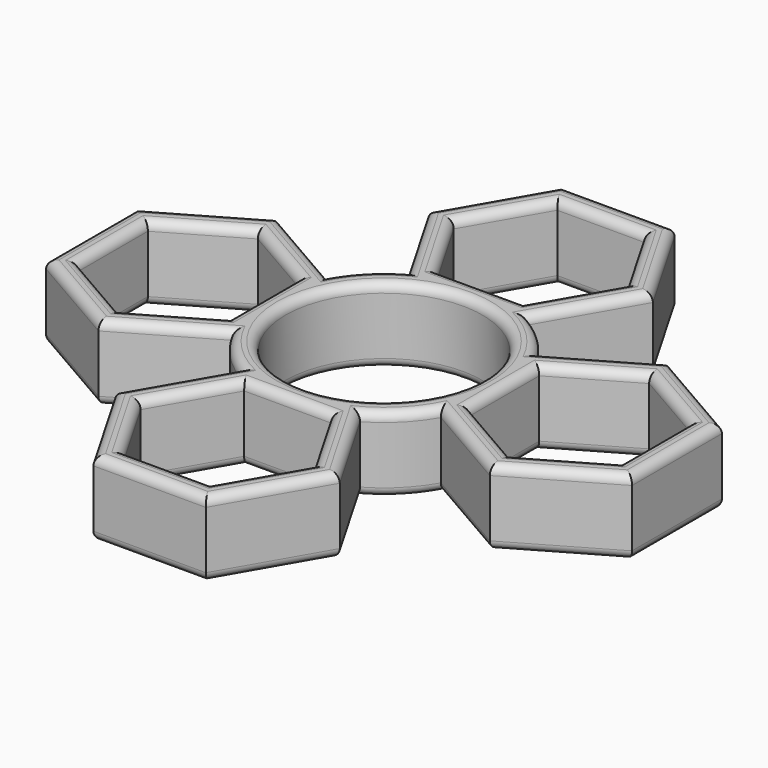
from build123d import *

# Parameters (mm, degrees)
F1_DEPTH = 8.5
F2_R     = 1


with BuildPart() as f1:
    # F0 (on Top) → F1 (new body)
    with BuildSketch(Plane.XY):
        with BuildLine():
            Line((11.125, -6.3508529611), (11.125, 0))
            ThreePointArc((11.125, 0), (7.8665629407, -7.8665629407), (0, -11.125))
            Line((0, -11.125), (6.3508529611, -11.125))
            Line((6.3508529611, -11.125), (6.7583017376, -11.8307219824))
            ThreePointArc((6.7583017376, -11.8307219824), (9.6343298937, -9.6343298937), (11.8307219824, -6.7583017376))
            Line((11.8307219824, -6.7583017376), (11.125, -6.3508529611))
        make_face()
        with BuildLine():
            Line((11.125, 6.3508529611), (11.125, 0))
            Line((11.125, 0), (11.125, -6.3508529611))
            Line((11.125, -6.3508529611), (11.8307219824, -6.7583017376))
            ThreePointArc((11.8307219824, -6.7583017376), (13.1687928834, -3.4962149527), (13.625, 0))
            ThreePointArc((13.625, 0), (13.1687928834, 3.4962149527), (11.8307219824, 6.7583017376))
            Line((11.8307219824, 6.7583017376), (11.125, 6.3508529611))
        make_face()
        with BuildLine():
            ThreePointArc((0, 11.125), (7.8665629407, 7.8665629407), (11.125, 0))
            Line((11.125, 0), (11.125, 6.3508529611))
            Line((11.125, 6.3508529611), (11.8307219824, 6.7583017376))
            ThreePointArc((11.8307219824, 6.7583017376), (9.6343298937, 9.6343298937), (6.7583017376, 11.8307219824))
            Line((6.7583017376, 11.8307219824), (6.3508529611, 11.125))
            Line((6.3508529611, 11.125), (0, 11.125))
        make_face()
        with BuildLine():
            Line((-6.3508529611, 11.125), (0, 11.125))
            Line((0, 11.125), (6.3508529611, 11.125))
            Line((6.3508529611, 11.125), (6.7583017376, 11.8307219824))
            ThreePointArc((6.7583017376, 11.8307219824), (3.4962149527, 13.1687928834), (0, 13.625))
            ThreePointArc((0, 13.625), (-3.4962149527, 13.1687928834), (-6.7583017376, 11.8307219824))
            Line((-6.7583017376, 11.8307219824), (-6.3508529611, 11.125))
        make_face()
        with BuildLine():
            ThreePointArc((-11.125, 0), (-7.8665629407, 7.8665629407), (0, 11.125))
            Line((0, 11.125), (-6.3508529611, 11.125))
            Line((-6.3508529611, 11.125), (-6.7583017376, 11.8307219824))
            ThreePointArc((-6.7583017376, 11.8307219824), (-9.6343298937, 9.6343298937), (-11.8307219824, 6.7583017376))
            Line((-11.8307219824, 6.7583017376), (-11.125, 6.3508529611))
            Line((-11.125, 6.3508529611), (-11.125, 0))
        make_face()
        with BuildLine():
            Line((-6.3508529611, -11.125), (0, -11.125))
            ThreePointArc((0, -11.125), (-7.8665629407, -7.8665629407), (-11.125, 0))
            Line((-11.125, 0), (-11.125, -6.3508529611))
            Line((-11.125, -6.3508529611), (-11.8307219824, -6.7583017376))
            ThreePointArc((-11.8307219824, -6.7583017376), (-9.6343298937, -9.6343298937), (-6.7583017376, -11.8307219824))
            Line((-6.7583017376, -11.8307219824), (-6.3508529611, -11.125))
        make_face()
        with BuildLine():
            Line((6.3508529611, -11.125), (0, -11.125))
            Line((0, -11.125), (-6.3508529611, -11.125))
            Line((-6.3508529611, -11.125), (-6.7583017376, -11.8307219824))
            ThreePointArc((-6.7583017376, -11.8307219824), (-3.4962149527, -13.1687928834), (0, -13.625))
            ThreePointArc((0, -13.625), (3.4962149527, -13.1687928834), (6.7583017376, -11.8307219824))
            Line((6.7583017376, -11.8307219824), (6.3508529611, -11.125))
        make_face()
        with BuildLine():
            Line((-11.125, -6.3508529611), (-11.125, 0))
            Line((-11.125, 0), (-11.125, 6.3508529611))
            Line((-11.125, 6.3508529611), (-11.8307219824, 6.7583017376))
            ThreePointArc((-11.8307219824, 6.7583017376), (-13.1687928834, 3.4962149527), (-13.625, 0))
            ThreePointArc((-13.625, 0), (-13.1687928834, -3.4962149527), (-11.8307219824, -6.7583017376))
            Line((-11.8307219824, -6.7583017376), (-11.125, -6.3508529611))
        make_face()
        with BuildLine():
            ThreePointArc((13.625, 0), (13.1687928834, -3.4962149527), (11.8307219824, -6.7583017376))
            Line((11.8307219824, -6.7583017376), (22.125, -12.7017059222))
            Line((22.125, -12.7017059222), (33.125, -6.3508529611))
            Line((33.125, -6.3508529611), (33.125, 6.3508529611))
            Line((33.125, 6.3508529611), (22.125, 12.7017059222))
            Line((22.125, 12.7017059222), (11.8307219824, 6.7583017376))
            ThreePointArc((11.8307219824, 6.7583017376), (13.1687928834, 3.4962149527), (13.625, 0))
        make_face()
        Polygon((13.625, -4.9074772881), (13.625, 0), (13.625, 4.9074772881), (22.125, 9.8149545762), (30.625, 4.9074772881), (30.625, -4.9074772881), (22.125, -9.8149545762), align=None, mode=Mode.SUBTRACT)
        with BuildLine():
            ThreePointArc((0, 13.625), (3.4962149527, 13.1687928834), (6.7583017376, 11.8307219824))
            Line((6.7583017376, 11.8307219824), (12.7017059222, 22.125))
            Line((12.7017059222, 22.125), (6.3508529611, 33.125))
            Line((6.3508529611, 33.125), (-6.3508529611, 33.125))
            Line((-6.3508529611, 33.125), (-12.7017059222, 22.125))
            Line((-12.7017059222, 22.125), (-6.7583017376, 11.8307219824))
            ThreePointArc((-6.7583017376, 11.8307219824), (-3.4962149527, 13.1687928834), (0, 13.625))
        make_face()
        Polygon((4.9074772881, 13.625), (0, 13.625), (-4.9074772881, 13.625), (-9.8149545762, 22.125), (-4.9074772881, 30.625), (4.9074772881, 30.625), (9.8149545762, 22.125), align=None, mode=Mode.SUBTRACT)
        with BuildLine():
            ThreePointArc((0, -13.625), (-3.4962149527, -13.1687928834), (-6.7583017376, -11.8307219824))
            Line((-6.7583017376, -11.8307219824), (-12.7017059222, -22.125))
            Line((-12.7017059222, -22.125), (-6.3508529611, -33.125))
            Line((-6.3508529611, -33.125), (6.3508529611, -33.125))
            Line((6.3508529611, -33.125), (12.7017059222, -22.125))
            Line((12.7017059222, -22.125), (6.7583017376, -11.8307219824))
            ThreePointArc((6.7583017376, -11.8307219824), (3.4962149527, -13.1687928834), (0, -13.625))
        make_face()
        Polygon((-4.9074772881, -13.625), (0, -13.625), (4.9074772881, -13.625), (9.8149545762, -22.125), (4.9074772881, -30.625), (-4.9074772881, -30.625), (-9.8149545762, -22.125), align=None, mode=Mode.SUBTRACT)
        with BuildLine():
            ThreePointArc((-13.625, 0), (-13.1687928834, 3.4962149527), (-11.8307219824, 6.7583017376))
            Line((-11.8307219824, 6.7583017376), (-22.125, 12.7017059222))
            Line((-22.125, 12.7017059222), (-33.125, 6.3508529611))
            Line((-33.125, 6.3508529611), (-33.125, -6.3508529611))
            Line((-33.125, -6.3508529611), (-22.125, -12.7017059222))
            Line((-22.125, -12.7017059222), (-11.8307219824, -6.7583017376))
            ThreePointArc((-11.8307219824, -6.7583017376), (-13.1687928834, -3.4962149527), (-13.625, 0))
        make_face()
        Polygon((-13.625, 4.9074772881), (-13.625, 0), (-13.625, -4.9074772881), (-22.125, -9.8149545762), (-30.625, -4.9074772881), (-30.625, 4.9074772881), (-22.125, 9.8149545762), align=None, mode=Mode.SUBTRACT)
    extrude(amount=F1_DEPTH)

    # F2
    f2_edges = [f1.edges().sort_by_distance(p)[0] for p in [
        (16.977861, -9.730004, 0),
        (27.625, -9.526279, 0),
        (33.125, 0, 0),
        (27.625, 9.526279, 0),
        (16.977861, 9.730004, 0),
        (9.63433, 9.63433, 0),
        (9.730004, 16.977861, 0),
        (9.526279, 27.625, 0),
        (0, 33.125, 0),
        (-9.526279, 27.625, 0),
        (-9.730004, 16.977861, 0),
        (-9.63433, 9.63433, 0),
        (-16.977861, 9.730004, 0),
        (-27.625, 9.526279, 0),
        (-33.125, 0, 0),
        (-27.625, -9.526279, 0),
        (-16.977861, -9.730004, 0),
        (-9.63433, -9.63433, 0),
        (-9.730004, -16.977861, 0),
        (-9.526279, -27.625, 0),
        (0, -33.125, 0),
        (9.526279, -27.625, 0),
        (9.730004, -16.977861, 0),
        (9.63433, -9.63433, 0),
        (11.125, 0, 0),
        (17.875, 7.361216, 0),
        (26.375, 7.361216, 0),
        (30.625, 0, 0),
        (26.375, -7.361216, 0),
        (17.875, -7.361216, 0),
        (13.625, 0, 0),
        (-7.361216, 17.875, 0),
        (-7.361216, 26.375, 0),
        (0, 30.625, 0),
        (7.361216, 26.375, 0),
        (7.361216, 17.875, 0),
        (0, 13.625, 0),
        (7.361216, -17.875, 0),
        (7.361216, -26.375, 0),
        (0, -30.625, 0),
        (-7.361216, -26.375, 0),
        (-7.361216, -17.875, 0),
        (0, -13.625, 0),
        (-17.875, -7.361216, 0),
        (-26.375, -7.361216, 0),
        (-30.625, 0, 0),
        (-26.375, 7.361216, 0),
        (-17.875, 7.361216, 0),
        (-13.625, 0, 0),
        (16.977861, -9.730004, 8.5),
        (27.625, -9.526279, 8.5),
        (33.125, 0, 8.5),
        (27.625, 9.526279, 8.5),
        (16.977861, 9.730004, 8.5),
        (9.63433, 9.63433, 8.5),
        (9.730004, 16.977861, 8.5),
        (9.526279, 27.625, 8.5),
        (0, 33.125, 8.5),
        (-9.526279, 27.625, 8.5),
        (-9.730004, 16.977861, 8.5),
        (-9.63433, 9.63433, 8.5),
        (-16.977861, 9.730004, 8.5),
        (-27.625, 9.526279, 8.5),
        (-33.125, 0, 8.5),
        (-27.625, -9.526279, 8.5),
        (-16.977861, -9.730004, 8.5),
        (-9.63433, -9.63433, 8.5),
        (-9.730004, -16.977861, 8.5),
        (-9.526279, -27.625, 8.5),
        (0, -33.125, 8.5),
        (9.526279, -27.625, 8.5),
        (9.730004, -16.977861, 8.5),
        (9.63433, -9.63433, 8.5),
        (11.125, 0, 8.5),
        (17.875, 7.361216, 8.5),
        (26.375, 7.361216, 8.5),
        (30.625, 0, 8.5),
        (26.375, -7.361216, 8.5),
        (17.875, -7.361216, 8.5),
        (13.625, 0, 8.5),
        (-7.361216, 17.875, 8.5),
        (-7.361216, 26.375, 8.5),
        (0, 30.625, 8.5),
        (7.361216, 26.375, 8.5),
        (7.361216, 17.875, 8.5),
        (0, 13.625, 8.5),
        (7.361216, -17.875, 8.5),
        (7.361216, -26.375, 8.5),
        (0, -30.625, 8.5),
        (-7.361216, -26.375, 8.5),
        (-7.361216, -17.875, 8.5),
        (0, -13.625, 8.5),
        (-17.875, -7.361216, 8.5),
        (-26.375, -7.361216, 8.5),
        (-30.625, 0, 8.5),
        (-26.375, 7.361216, 8.5),
        (-17.875, 7.361216, 8.5),
        (-13.625, 0, 8.5),
    ]]
    fillet(f2_edges, radius=F2_R)


solid = f1.part
